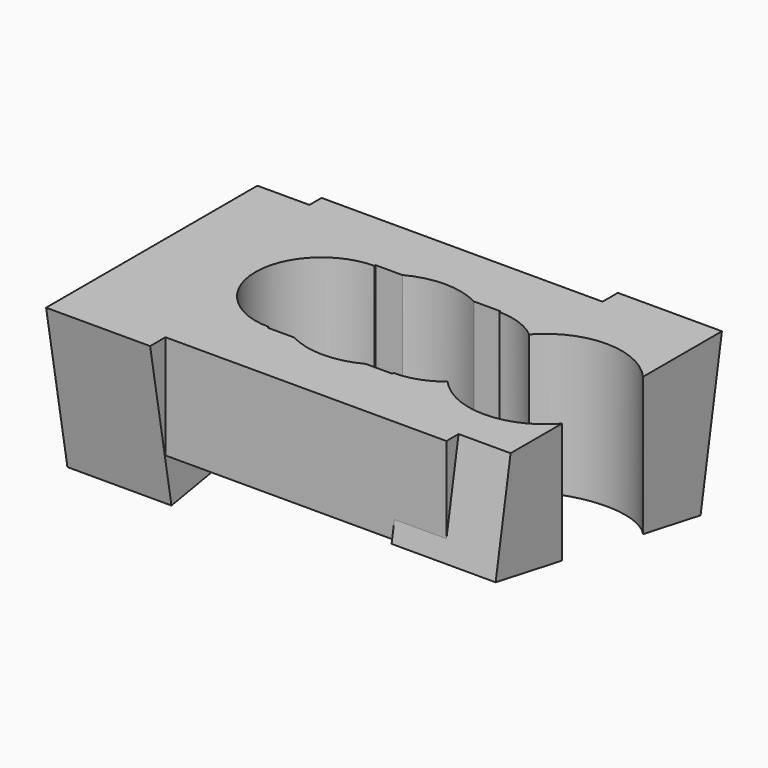
from build123d import *

# Parameters (mm, degrees)
BOX068_W                  = 6
BOX068_H                  = 13
BOX068_DEPTH              = 55
CYLINDER051_R             = 6.35
CYLINDER051_DEPTH         = 55
BOX069_W                  = 6
BOX069_H                  = 13
BOX069_DEPTH              = 55
CYLINDER052_R             = 6.35
CYLINDER052_DEPTH         = 55
FUSION100_PLACEMENT_ANGLE = 180
CYLINDER050_R             = 7.35
CYLINDER050_DEPTH         = 55
CYLINDER_R                = 7.35
CYLINDER_DEPTH            = 60
BOX067_W                  = 62
BOX067_H                  = 55
BOX067_DEPTH              = 10
BOX066_W                  = 10
BOX066_H                  = 25
BOX066_DEPTH              = 20
BOX066_PLACEMENT_ANGLE    = 10
CYLINDER049_R             = 6.35
CYLINDER049_DEPTH         = 55
FUSION097_PLACEMENT_ANGLE = 180
BOX_W                     = 32
BOX_H                     = 25
BOX_DEPTH                 = 10
BOX065_W                  = 10
BOX065_H                  = 25
BOX065_DEPTH              = 20
BOX065_PLACEMENT_ANGLE    = 10
CYLINDER048_R             = 6.35
CYLINDER048_DEPTH         = 55


with BuildPart() as cube068:
    # Box068 → Box068 (new body)
    with BuildSketch(Plane(origin=(0, -6.5, 0), x_dir=(1, 0, 0), z_dir=(0, 0, 1))):
        with Locations((3, 6.5)):
            Rectangle(BOX068_W, BOX068_H)
    extrude(amount=BOX068_DEPTH)


with BuildPart() as fusion099:
    # Cylinder051 → Cylinder051 (new body)
    with BuildSketch(Plane(origin=(6, 0, 0), x_dir=(1, 0, 0), z_dir=(0, 0, 1))):
        Circle(CYLINDER051_R)
    extrude(amount=CYLINDER051_DEPTH)

    # Fusion099: union Cube068
    add(cube068.part)


with BuildPart() as cube069:
    # Box069 → Box069 (new body)
    with BuildSketch(Plane(origin=(0, -6.5, 0), x_dir=(1, 0, 0), z_dir=(0, 0, 1))):
        with Locations((3, 6.5)):
            Rectangle(BOX069_W, BOX069_H)
    extrude(amount=BOX069_DEPTH)


with BuildPart() as fusion101:
    # Cylinder052 → Cylinder052 (new body)
    with BuildSketch(Plane(origin=(6, 0, 0), x_dir=(1, 0, 0), z_dir=(0, 0, 1))):
        Circle(CYLINDER052_R)
    extrude(amount=CYLINDER052_DEPTH)

    # Fusion100: union Cube069
    add(cube069.part)


with BuildPart() as fusion101_1:
    # Fusion100 placement: moved
    add(fusion101.part.rotate(Axis((0, 0, 0), (0, 0, 1)), FUSION100_PLACEMENT_ANGLE))

    # Fusion101: union Fusion099
    add(fusion099.part)


with BuildPart() as obj1:
    # Cylinder050 → Cylinder050 (new body)
    with BuildSketch(Plane.XY):
        Circle(CYLINDER050_R)
    extrude(amount=CYLINDER050_DEPTH)


with BuildPart() as cylinder:
    # Cylinder → Cylinder (new body)
    with BuildSketch(Plane(origin=(15.5, 0, 0), x_dir=(1, 0, 0), z_dir=(0, 0, 1))):
        Circle(CYLINDER_R)
    extrude(amount=CYLINDER_DEPTH)


with BuildPart() as cube067:
    # Box067 → Box067 (new body)
    with BuildSketch(Plane(origin=(-27, -21.5, 55), x_dir=(1, 0, 0), z_dir=(0, 0, 1))):
        with Locations((31, 27.5)):
            Rectangle(BOX067_W, BOX067_H)
    extrude(amount=BOX067_DEPTH)


with BuildPart() as cube066:
    # Box066 → Box066 (new body)
    with BuildSketch(Plane.XY):
        with Locations((5, 12.5)):
            Rectangle(BOX066_W, BOX066_H)
    extrude(amount=BOX066_DEPTH)


with BuildPart() as cube066_1:
    # Box066 placement: moved
    add(cube066.part.moved(Location((11, -12.839144, 44.808394))).rotate(Axis((11, -12.839144, 44.808394), (-1, 0, 0)), BOX066_PLACEMENT_ANGLE))


with BuildPart() as fusion097:
    # Cylinder049 → Cylinder049 (new body)
    with BuildSketch(Plane.XY):
        Circle(CYLINDER049_R)
    extrude(amount=CYLINDER049_DEPTH)

    # Fusion097: union Cube066
    add(cube066_1.part)


with BuildPart() as fusion097_1:
    # Fusion097 placement: moved
    add(fusion097.part.rotate(Axis((0, 0, 0), (0, 0, 1)), FUSION097_PLACEMENT_ANGLE))


with BuildPart() as fusion:
    # Box → Box (new body)
    with BuildSketch(Plane(origin=(-16, -12.5, 45), x_dir=(1, 0, 0), z_dir=(0, 0, 1))):
        with Locations((16, 12.5)):
            Rectangle(BOX_W, BOX_H)
    extrude(amount=BOX_DEPTH)

    # Fusion: union Fusion097
    add(fusion097_1.part)


with BuildPart() as cube065:
    # Box065 → Box065 (new body)
    with BuildSketch(Plane.XY):
        with Locations((5, 12.5)):
            Rectangle(BOX065_W, BOX065_H)
    extrude(amount=BOX065_DEPTH)


with BuildPart() as cube065_1:
    # Box065 placement: moved
    add(cube065.part.moved(Location((11, -12.839144, 44.808394))).rotate(Axis((11, -12.839144, 44.808394), (-1, 0, 0)), BOX065_PLACEMENT_ANGLE))


with BuildPart() as cut003:
    # Cylinder048 → Cylinder048 (new body)
    with BuildSketch(Plane.XY):
        Circle(CYLINDER048_R)
    extrude(amount=CYLINDER048_DEPTH)

    # Fusion096: union Cube065
    add(cube065_1.part)

    # Fusion098: union Fusion
    add(fusion.part)

    # Cut: cut Cube067
    add(cube067.part, mode=Mode.SUBTRACT)

    # Cut001: cut Cylinder
    add(cylinder.part, mode=Mode.SUBTRACT)

    # Cut002: cut obj1
    add(obj1.part, mode=Mode.SUBTRACT)

    # Cut003: cut Fusion101
    add(fusion101_1.part, mode=Mode.SUBTRACT)


solid = cut003.part
